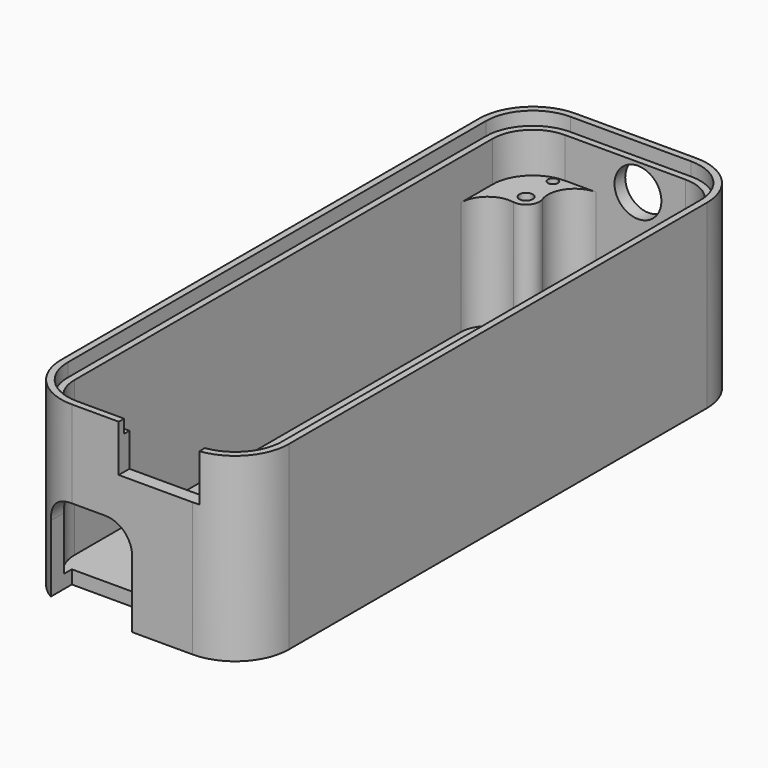
from build123d import *

# Parameters (mm, degrees)
PAD_DEPTH       = 27
POCKET_DEPTH    = 8
SKETCH002_R     = 3.5
POCKET001_DEPTH = 5
POCKET002_DEPTH = 17
SKETCH004_R     = 1
POCKET003_DEPTH = 11
SKETCH005_W     = 12
SKETCH005_H     = 4
POCKET004_DEPTH = 7
POCKET005_DEPTH = 1.3
POCKET006_DEPTH = 2
SKETCH011_R     = 0.75
POCKET008_DEPTH = 12
POCKET009_DEPTH = 5


with BuildPart() as part:
    # Sketch → Pad (new body)
    with BuildSketch(Plane.XY):
        with BuildLine():
            Line((-9, 47.5), (9, 47.5))
            ThreePointArc((17, 39.5), (14.656854, 45.156854), (9, 47.5))
            Line((17, 39.5), (17, -38.5))
            ThreePointArc((9, -46.5), (14.656854, -44.156854), (17, -38.5))
            Line((-9, -46.5), (9, -46.5))
            ThreePointArc((-17, -38.5), (-14.656854, -44.156854), (-9, -46.5))
            Line((-17, 39.5), (-17, -38.5))
            ThreePointArc((-9, 47.5), (-14.656854, 45.156854), (-17, 39.5))
        make_face()
    extrude(amount=PAD_DEPTH)

    # Sketch001 (on Face10 of Pad) → Pocket (cut)
    with BuildSketch(Plane.XY.offset(27)):
        with BuildLine():
            Line((-9, 45.5), (9, 45.5))
            ThreePointArc((15, 39.5), (13.242641, 43.742641), (9, 45.5))
            Line((15, 39.5), (15, -38.5))
            ThreePointArc((9, -44.5), (13.242641, -42.742641), (15, -38.5))
            Line((-9, -44.5), (9, -44.5))
            ThreePointArc((-15, -38.5), (-13.242641, -42.742641), (-9, -44.5))
            Line((-15, 39.5), (-15, -38.5))
            ThreePointArc((-9, 45.5), (-13.242641, 43.742641), (-15, 39.5))
        make_face()
    extrude(amount=-POCKET_DEPTH, mode=Mode.SUBTRACT)

    # Sketch002 (on Face2 of Pocket) → Pocket001 (cut)
    with BuildSketch(Plane(origin=(0, 47.5, 0), x_dir=(-1, 0, 0), z_dir=(0, 1, 0))):
        with Locations((-1.9, 21)):
            Circle(SKETCH002_R)
    extrude(amount=-POCKET001_DEPTH, mode=Mode.SUBTRACT)

    # Sketch003 (on Face20 of Pocket001) → Pocket002 (cut)
    with BuildSketch(Plane.XY.offset(19)):
        with BuildLine():
            ThreePointArc((8, 39.5), (8.709006, 37.972475), (10.333333, 37.527973))
            ThreePointArc((15, 33.58392), (13.581989, 36.638971), (10.333333, 37.527973))
            Line((15, -35), (15, 33.58392))
            ThreePointArc((12, -38), (14.12132, -37.12132), (15, -35))
            ThreePointArc((12, -38), (10.725245, -38.709431), (10.65629, -40.166667))
            ThreePointArc((7.968871, -44.5), (10.518381, -43.081139), (10.65629, -40.166667))
            Line((7.968871, -44.5), (-9, -44.5))
            ThreePointArc((-15, -38.5), (-13.242641, -42.742641), (-9, -44.5))
            Line((-15, -38.5), (-15, 33.58392))
            ThreePointArc((-10.333333, 37.527973), (-13.581989, 36.638971), (-15, 33.58392))
            ThreePointArc((-10.333333, 37.527973), (-8.46929, 38.212783), (-8.114382, 40.166667))
            ThreePointArc((-4.343146, 45.5), (-7.609132, 43.809401), (-8.114382, 40.166667))
            Line((6.5, 45.5), (-4.343146, 45.5))
            ThreePointArc((8, 44), (7.56066, 45.06066), (6.5, 45.5))
            Line((8, 39.5), (8, 44))
        make_face()
    extrude(amount=-POCKET002_DEPTH, mode=Mode.SUBTRACT)

    # Sketch004 (on Face15 of Pocket002) → Pocket003 (cut)
    with BuildSketch(Plane.XY.offset(19)):
        with Locations((-10, 39.5)):
            Circle(SKETCH004_R)
        with Locations((10, 39.5)):
            Circle(SKETCH004_R)
        with Locations((12, -39.5)):
            Circle(SKETCH004_R)
    extrude(amount=-POCKET003_DEPTH, mode=Mode.SUBTRACT)

    # Sketch005 (on Face5 of Pocket003) → Pocket004 (cut)
    with BuildSketch(Plane.XY.offset(27)):
        with Locations((4, -44.5)):
            Rectangle(SKETCH005_W, SKETCH005_H)
    extrude(amount=-POCKET004_DEPTH, mode=Mode.SUBTRACT)

    # Sketch007 (on Face26 of Pocket004) → Pocket005 (cut)
    with BuildSketch(Plane.XY.offset(2)):
        with BuildLine():
            ThreePointArc((8, 32.5), (0, 40.5), (-8, 32.5))
            Line((-8, 32.5), (-8, -32.5))
            ThreePointArc((-8, -32.5), (0, -40.5), (8, -32.5))
            Line((8, 32.5), (8, -32.5))
        make_face()
        with BuildLine():
            ThreePointArc((15, 31), (12, 34), (9, 31))
            Line((9, 31), (9, 6))
            ThreePointArc((9, 6), (12, 3), (15, 6))
            Line((15, 31), (15, 6))
        make_face()
    extrude(amount=-POCKET005_DEPTH, mode=Mode.SUBTRACT)

    # Sketch008 (on Face5 of Pocket005) → Pocket006 (cut)
    with BuildSketch(Plane.XY.offset(27)):
        with BuildLine():
            Line((-9, 46.5), (9, 46.5))
            ThreePointArc((16, 39.5), (13.949747, 44.449747), (9, 46.5))
            Line((16, 39.5), (16, -38.5))
            ThreePointArc((9, -45.5), (13.949747, -43.449747), (16, -38.5))
            Line((-9, -45.5), (9, -45.5))
            ThreePointArc((-16, -38.5), (-13.949747, -43.449747), (-9, -45.5))
            Line((-16, 39.5), (-16, -38.5))
            ThreePointArc((-9, 46.5), (-13.949747, 44.449747), (-16, 39.5))
        make_face()
    extrude(amount=-POCKET006_DEPTH, mode=Mode.SUBTRACT)

    # Sketch011 (on Face24 of Pocket006) → Pocket008 (cut)
    with BuildSketch(Plane.XY.offset(25)):
        with Locations((-10, 44.5)):
            Circle(SKETCH011_R)
        with Locations((12, -43.5)):
            Circle(SKETCH011_R)
    extrude(amount=-POCKET008_DEPTH, mode=Mode.SUBTRACT)

    # Sketch012 (on Face11 of Pocket008) → Pocket009 (cut)
    with BuildSketch(Plane.XZ.offset(46.5)):
        with BuildLine():
            Line((0, 0), (0, 10))
            ThreePointArc((0, 10), (-1.171573, 12.828427), (-4, 14))
            Line((-9, 14), (-4, 14))
            ThreePointArc((-9, 14), (-11.828427, 12.828427), (-13, 10))
            Line((-13, 10), (-13, 0))
            Line((-13, 0), (0, 0))
        make_face()
    extrude(amount=-POCKET009_DEPTH, mode=Mode.SUBTRACT)


solid = part.part
